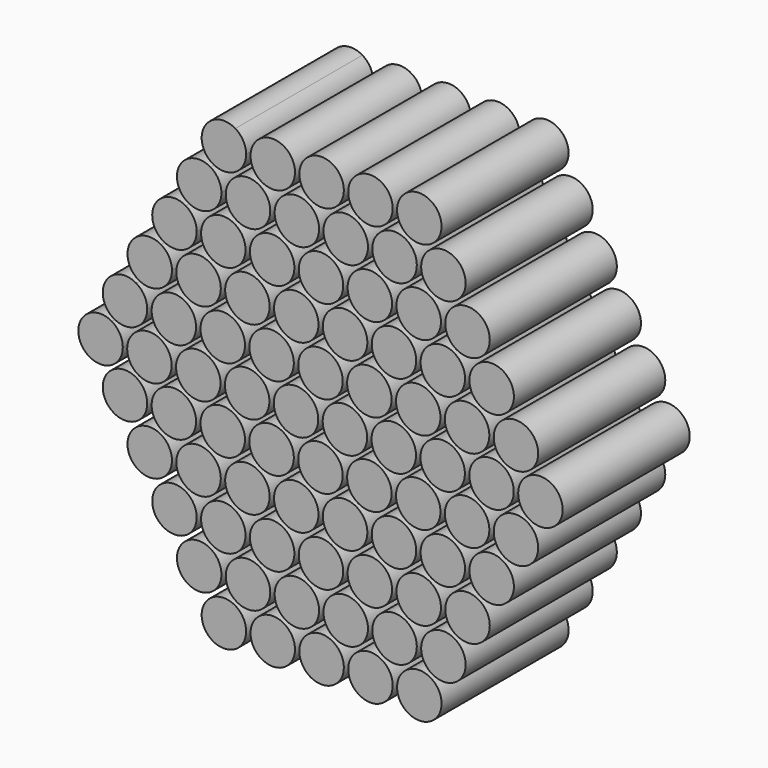
from build123d import *

# Parameters (mm, degrees)
F0_R     = 9.1
F1_DEPTH = 65


with BuildPart() as f1:
    # F0 (on Front) → F1 (new body)
    with BuildSketch(Plane.XZ):
        with BuildLine():
            Line((0, 0), (9.1, 0))
            ThreePointArc((9.1, 0), (7.899251, 4.517946), (4.613883, 7.843601))
            Line((4.613883, 7.843601), (0, 0))
        make_face()
        with BuildLine():
            ThreePointArc((55.154654, 93.762911), (42.636727, 90.569062), (45.927163, 78.076176))
            Line((45.927163, 78.076176), (55.154654, 93.762911))
        make_face()
        with BuildLine():
            Line((55.154654, 93.762911), (45.927163, 78.076176))
            ThreePointArc((45.927163, 78.076176), (55.028745, 78.073434), (59.580328, 85.955179))
            ThreePointArc((59.580328, 85.955179), (58.396968, 90.442586), (55.154654, 93.762911))
        make_face()
        with BuildLine():
            ThreePointArc((45.019487, 76.533128), (32.516645, 73.330267), (35.791875, 60.846188))
            Line((35.791875, 60.846188), (45.019487, 76.533128))
        make_face()
        with BuildLine():
            Line((45.019487, 76.533128), (35.791875, 60.846188))
            ThreePointArc((35.791875, 60.846188), (44.901051, 60.830252), (49.460246, 68.716384))
            ThreePointArc((49.460246, 68.716384), (48.272549, 73.211432), (45.019487, 76.533128))
        make_face()
        with BuildLine():
            ThreePointArc((34.884303, 59.303315), (22.396563, 56.091473), (25.656605, 43.616229))
            Line((25.656605, 43.616229), (34.884303, 59.303315))
        make_face()
        with BuildLine():
            Line((34.884303, 59.303315), (25.656605, 43.616229))
            ThreePointArc((25.656605, 43.616229), (34.773354, 43.587077), (39.340164, 51.477589))
            ThreePointArc((39.340164, 51.477589), (38.148124, 55.980274), (34.884303, 59.303315))
        make_face()
        with BuildLine():
            ThreePointArc((24.749102, 42.073473), (12.276481, 38.852678), (15.521352, 26.386299))
            Line((15.521352, 26.386299), (24.749102, 42.073473))
        make_face()
        with BuildLine():
            Line((24.749102, 42.073473), (15.521352, 26.386299))
            ThreePointArc((15.521352, 26.386299), (24.645652, 26.343909), (29.220082, 34.238795))
            ThreePointArc((29.220082, 34.238795), (28.023691, 38.749112), (24.749102, 42.073473))
        make_face()
        with BuildLine():
            ThreePointArc((14.613883, 24.843601), (2.156399, 21.613883), (5.386117, 9.156399))
            Line((5.386117, 9.156399), (10, 17))
            Line((10, 17), (14.613883, 24.843601))
        make_face()
        with BuildLine():
            Line((10, 17), (5.386117, 9.156399))
            ThreePointArc((5.386117, 9.156399), (14.517946, 9.100749), (19.1, 17))
            ThreePointArc((19.1, 17), (17.899251, 21.517946), (14.613883, 24.843601))
            Line((14.613883, 24.843601), (10, 17))
        make_face()
        with BuildLine():
            ThreePointArc((4.613883, 7.843601), (-7.899251, -4.517946), (9.1, 0))
            Line((9.1, 0), (0, 0))
            Line((0, 0), (4.613883, 7.843601))
        make_face()
        with BuildLine():
            ThreePointArc((189.1, 0), (180, 9.1), (170.9, 0))
            ThreePointArc((170.9, 0), (180, -9.1), (189.1, 0))
        make_face()
        with BuildLine():
            ThreePointArc((169.1, 0), (160, 9.1), (150.9, 0))
            Line((150.9, 0), (169.1, 0))
        make_face()
        with BuildLine():
            Line((169.1, 0), (150.9, 0))
            ThreePointArc((150.9, 0), (160, -9.1), (169.1, 0))
        make_face()
        with BuildLine():
            ThreePointArc((149.1, 0), (140, 9.1), (130.9, 0))
            Line((130.9, 0), (149.1, 0))
        make_face()
        with BuildLine():
            Line((149.1, 0), (130.9, 0))
            ThreePointArc((130.9, 0), (140, -9.1), (149.1, 0))
        make_face()
        with BuildLine():
            ThreePointArc((129.1, 0), (120, 9.1), (110.9, 0))
            Line((110.9, 0), (129.1, 0))
        make_face()
        with BuildLine():
            Line((129.1, 0), (110.9, 0))
            ThreePointArc((110.9, 0), (120, -9.1), (129.1, 0))
        make_face()
        with BuildLine():
            ThreePointArc((109.1, 0), (100, 9.1), (90.9, 0))
            Line((90.9, 0), (109.1, 0))
        make_face()
        with BuildLine():
            Line((109.1, 0), (90.9, 0))
            ThreePointArc((90.9, 0), (100, -9.1), (109.1, 0))
        make_face()
        with BuildLine():
            ThreePointArc((89.1, 0), (80, 9.1), (70.9, 0))
            Line((70.9, 0), (89.1, 0))
        make_face()
        with BuildLine():
            Line((89.1, 0), (70.9, 0))
            ThreePointArc((70.9, 0), (80, -9.1), (89.1, 0))
        make_face()
        with BuildLine():
            ThreePointArc((69.1, 0), (60, 9.1), (50.9, 0))
            Line((50.9, 0), (69.1, 0))
        make_face()
        with BuildLine():
            Line((69.1, 0), (50.9, 0))
            ThreePointArc((50.9, 0), (60, -9.1), (69.1, 0))
        make_face()
        with BuildLine():
            ThreePointArc((49.1, 0), (40, 9.1), (30.9, 0))
            Line((30.9, 0), (49.1, 0))
        make_face()
        with BuildLine():
            Line((49.1, 0), (30.9, 0))
            ThreePointArc((30.9, 0), (40, -9.1), (49.1, 0))
        make_face()
        with BuildLine():
            ThreePointArc((29.1, 0), (20, 9.1), (10.9, 0))
            Line((10.9, 0), (29.1, 0))
        make_face()
        with BuildLine():
            Line((29.1, 0), (10.9, 0))
            ThreePointArc((10.9, 0), (20, -9.1), (29.1, 0))
        make_face()
        with Locations((30, 17)):
            Circle(F0_R)
        with Locations((50, 17)):
            Circle(F0_R)
        with Locations((70, 17)):
            Circle(F0_R)
        with Locations((90, 17)):
            Circle(F0_R)
        with Locations((110, 17)):
            Circle(F0_R)
        with Locations((130, 17)):
            Circle(F0_R)
        with Locations((150, 17)):
            Circle(F0_R)
        with Locations((170, 17)):
            Circle(F0_R)
        with Locations((40.109882, 34.238795)):
            Circle(F0_R)
        with Locations((60.099682, 34.238795)):
            Circle(F0_R)
        with Locations((80.089482, 34.238795)):
            Circle(F0_R)
        with Locations((100.079282, 34.238795)):
            Circle(F0_R)
        with Locations((120.069082, 34.238795)):
            Circle(F0_R)
        with Locations((140.058882, 34.238795)):
            Circle(F0_R)
        with Locations((160.048682, 34.238795)):
            Circle(F0_R)
        with Locations((50.229964, 51.477589)):
            Circle(F0_R)
        with Locations((70.219764, 51.477589)):
            Circle(F0_R)
        with Locations((90.209564, 51.477589)):
            Circle(F0_R)
        with Locations((110.199364, 51.477589)):
            Circle(F0_R)
        with Locations((130.189164, 51.477589)):
            Circle(F0_R)
        with Locations((150.178964, 51.477589)):
            Circle(F0_R)
        with Locations((60.350046, 68.716384)):
            Circle(F0_R)
        with Locations((80.339846, 68.716384)):
            Circle(F0_R)
        with Locations((100.329646, 68.716384)):
            Circle(F0_R)
        with Locations((120.319446, 68.716384)):
            Circle(F0_R)
        with Locations((140.309246, 68.716384)):
            Circle(F0_R)
        with Locations((70.470128, 85.955179)):
            Circle(F0_R)
        with Locations((90.459928, 85.955179)):
            Circle(F0_R)
        with Locations((110.449728, 85.955179)):
            Circle(F0_R)
        with Locations((130.439528, 85.955179)):
            Circle(F0_R)
        with Locations((160.048682, -34.238795)):
            Circle(F0_R)
        with Locations((90.459928, -85.955179)):
            Circle(F0_R)
        with Locations((150, -17)):
            Circle(F0_R)
        with Locations((40.360246, -68.716384)):
            Circle(F0_R)
        with Locations((170, -17)):
            Circle(F0_R)
        with Locations((50.480328, -85.955179)):
            Circle(F0_R)
        with Locations((150.178964, -51.477589)):
            Circle(F0_R)
        with Locations((130, -17)):
            Circle(F0_R)
        with Locations((30.240164, -51.477589)):
            Circle(F0_R)
        with Locations((130.189164, -51.477589)):
            Circle(F0_R)
        with Locations((90, -17)):
            Circle(F0_R)
        with Locations((70, -17)):
            Circle(F0_R)
        with Locations((50, -17)):
            Circle(F0_R)
        with Locations((70.219764, -51.477589)):
            Circle(F0_R)
        with Locations((80.089482, -34.238795)):
            Circle(F0_R)
        with Locations((120.319446, -68.716384)):
            Circle(F0_R)
        with Locations((120.069082, -34.238795)):
            Circle(F0_R)
        with Locations((110, -17)):
            Circle(F0_R)
        with Locations((110.199364, -51.477589)):
            Circle(F0_R)
        with Locations((20.120082, -34.238795)):
            Circle(F0_R)
        with Locations((50.229964, -51.477589)):
            Circle(F0_R)
        with Locations((60.099682, -34.238795)):
            Circle(F0_R)
        with Locations((130.439528, -85.955179)):
            Circle(F0_R)
        with Locations((100.329646, -68.716384)):
            Circle(F0_R)
        with Locations((30, -17)):
            Circle(F0_R)
        with Locations((10, -17)):
            Circle(F0_R)
        with Locations((140.058882, -34.238795)):
            Circle(F0_R)
        with Locations((70.470128, -85.955179)):
            Circle(F0_R)
        with Locations((90.209564, -51.477589)):
            Circle(F0_R)
        with Locations((140.309246, -68.716384)):
            Circle(F0_R)
        with Locations((100.079282, -34.238795)):
            Circle(F0_R)
        with Locations((40.109882, -34.238795)):
            Circle(F0_R)
        with Locations((80.339846, -68.716384)):
            Circle(F0_R)
        with Locations((60.350046, -68.716384)):
            Circle(F0_R)
        with Locations((110.449728, -85.955179)):
            Circle(F0_R)
    extrude(amount=F1_DEPTH)


solid = f1.part
